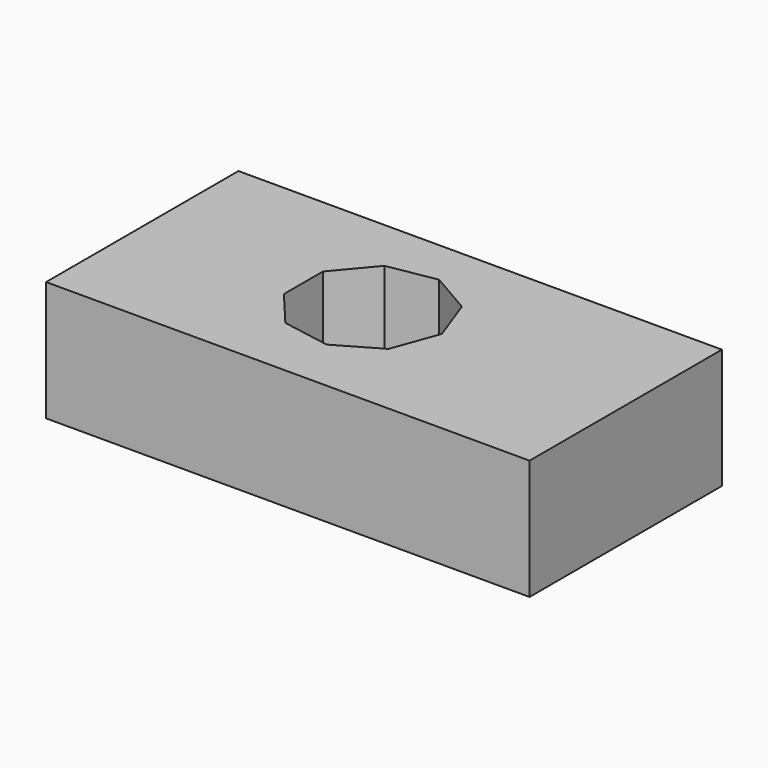
from build123d import *

# Parameters (mm, degrees)
F0_W     = 100.705649
F0_H     = 50.080647
F1_DEPTH = 25
F3_DEPTH = 25


with BuildPart() as f1:
    # F0 (on Top) → F1 (new body)
    with BuildSketch(Plane.XY):
        with Locations((-14.334681, 16.058468)):
            Rectangle(F0_W, F0_H)
    extrude(amount=F1_DEPTH)

    # F2 (on face) → F3 (cut)
    with BuildSketch(Plane.XY.offset(25)):
        Polygon((-31.844757, 22.051036), (-31.844757, 11.880417), (-25.30721, 4.089272), (-15.291106, 2.323162), (-6.483093, 7.408471), (-3.004536, 16.965726), (-6.483093, 26.522981), (-15.291106, 31.60829), (-25.30721, 29.842181), align=None)
    extrude(amount=-F3_DEPTH, mode=Mode.SUBTRACT)


solid = f1.part
